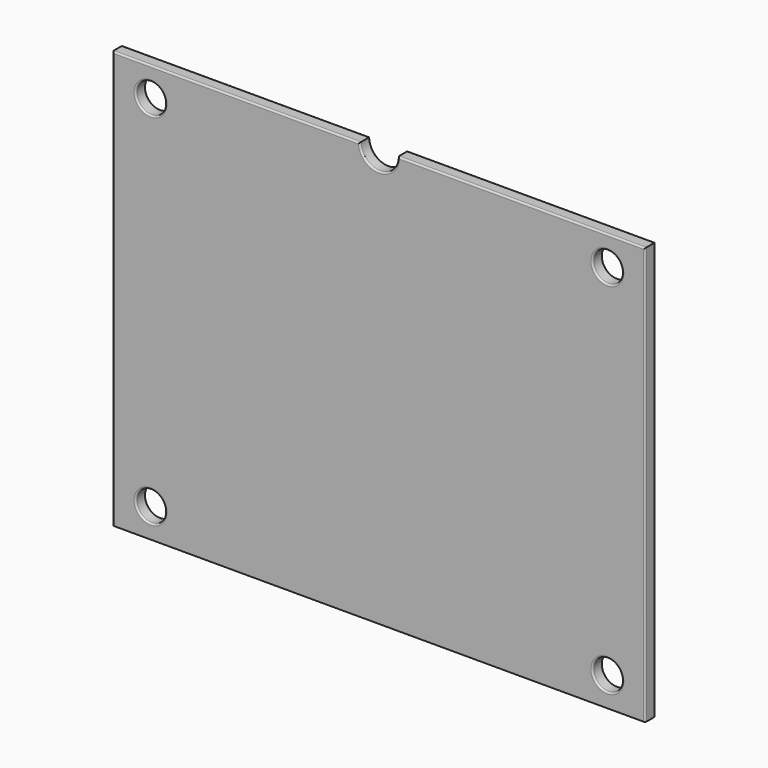
from build123d import *

# Parameters (mm, degrees)
F0_W     = 126
F0_H     = 3
F1_DEPTH = 98.75
F2_R     = 3.5
F3_DEPTH = 25
F4_R     = 0.4


with BuildPart() as f1:
    # F0 (on Top) → F1 (new body)
    with BuildSketch(Plane.XY):
        Rectangle(F0_W, F0_H)
    extrude(amount=F1_DEPTH)

    # F2 (on face) → F3 (cut)
    with BuildSketch(Plane.XZ.offset(1.5)):
        with Locations((-54.02, 91.85)):
            Circle(F2_R)
        with BuildLine():
            ThreePointArc((-4.5, 98.75), (0, 94.25), (4.5, 98.75))
            Line((4.5, 98.75), (-4.5, 98.75))
        make_face()
        with Locations((54.02, 91.85)):
            Circle(F2_R)
        with Locations((54.02, 6.9)):
            Circle(F2_R)
        with Locations((-54.02, 6.9)):
            Circle(F2_R)
    extrude(amount=-F3_DEPTH, mode=Mode.SUBTRACT)

    # F4
    f4_edges = [f1.edges().sort_by_distance(p)[0] for p in [
        (63, 1.5, 49.375),
        (63, -1.5, 49.375),
        (33.75, -1.5, 98.75),
        (33.75, 1.5, 98.75),
        (-33.75, 1.5, 98.75),
        (-33.75, -1.5, 98.75),
        (-63, -1.5, 49.375),
        (-63, 1.5, 49.375),
        (50.52, 1.5, 91.85),
        (50.52, -1.5, 91.85),
        (50.52, 1.5, 6.9),
        (50.52, -1.5, 6.9),
        (-57.52, -1.5, 6.9),
        (-57.52, 1.5, 6.9),
        (-57.52, 1.5, 91.85),
        (-57.52, -1.5, 91.85),
        (0, 1.5, 94.25),
        (0, -1.5, 94.25),
    ]]
    fillet(f4_edges, radius=F4_R)


solid = f1.part
